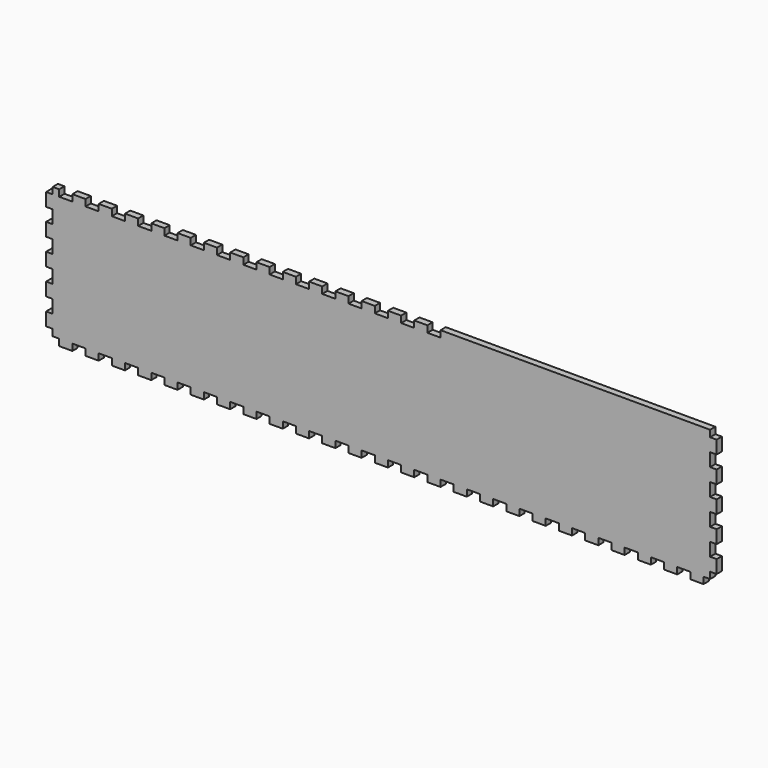
from build123d import *

# Parameters (mm, degrees)
SKETCH003_W             = 500
SKETCH003_H             = 100
PAD003_DEPTH            = 5
SKETCH025_W             = 10
SKETCH025_H             = 5
PAD023_DEPTH            = 5
LINEARPATTERN005_COUNT  = 25
LINEARPATTERN005_PITCH  = 20
SKETCH026_W             = 10
SKETCH026_H             = 5
PAD024_DEPTH            = 5
LINEARPATTERN006_COUNT  = 5
LINEARPATTERN006_PITCH  = 20
SKETCH027_W             = 10
SKETCH027_H             = 5
PAD025_DEPTH            = 5
LINEARPATTERN007_COUNT  = 5
LINEARPATTERN007_PITCH  = 20
SKETCH122_W             = 10
SKETCH122_H             = 5
POCKET032_DEPTH         = 5
LINEARPATTERN074_COUNT  = 15
LINEARPATTERN074_PITCH  = 20
BODY003_PLACEMENT_ANGLE = 90


with BuildPart() as part:
    # Sketch003 → Pad003 (new body)
    with BuildSketch(Plane.XY):
        Rectangle(SKETCH003_W, SKETCH003_H)
    extrude(amount=PAD003_DEPTH)

    # Sketch025 (on DatumPlane) → Pad023 (join)
    with BuildSketch(Plane.XZ.offset(50)):
        with Locations((-240, 2.5)):
            Rectangle(SKETCH025_W, SKETCH025_H)
    pad023 = extrude(amount=PAD023_DEPTH)

    # LinearPattern005: Pad023 ×25
    with Locations(*[(i * LINEARPATTERN005_PITCH, 0, 0) for i in range(1, LINEARPATTERN005_COUNT)]):
        add(pad023)

    # Sketch026 (on DatumPlane) → Pad024 (join)
    with BuildSketch(Plane.YZ.offset(250)):
        with Locations((-40, 2.5)):
            Rectangle(SKETCH026_W, SKETCH026_H)
    pad024 = extrude(amount=PAD024_DEPTH)

    # LinearPattern006: Pad024 ×5
    with Locations(*[(0, i * LINEARPATTERN006_PITCH, 0) for i in range(1, LINEARPATTERN006_COUNT)]):
        add(pad024)

    # Sketch027 (on DatumPlane) → Pad025 (join)
    with BuildSketch(Plane(origin=(-250, 0, 0), x_dir=(0, -1, 0), z_dir=(-1, 0, 0))):
        with Locations((-40, 2.5)):
            Rectangle(SKETCH027_W, SKETCH027_H)
    pad025 = extrude(amount=PAD025_DEPTH)

    # LinearPattern007: Pad025 ×5
    with Locations(*[(0, -i * LINEARPATTERN007_PITCH, 0) for i in range(1, LINEARPATTERN007_COUNT)]):
        add(pad025)

    # Sketch122 (on DatumPlane) → Pocket032 (cut)
    with BuildSketch(Plane(origin=(0, 50, 0), x_dir=(-1, 0, 0), z_dir=(0, 1, 0))):
        with Locations((240, 2.5)):
            Rectangle(SKETCH122_W, SKETCH122_H)
    pocket032 = extrude(amount=-POCKET032_DEPTH, mode=Mode.SUBTRACT)

    # LinearPattern074: Pocket032 ×15
    with Locations(*[(i * LINEARPATTERN074_PITCH, 0, 0) for i in range(1, LINEARPATTERN074_COUNT)]):
        add(pocket032, mode=Mode.SUBTRACT)


with BuildPart() as part_1:
    # Body003 placement: moved
    add(part.part.moved(Location((0, -145, 55))).rotate(Axis((0, -145, 55), (1, 0, 0)), BODY003_PLACEMENT_ANGLE))


solid = part_1.part
